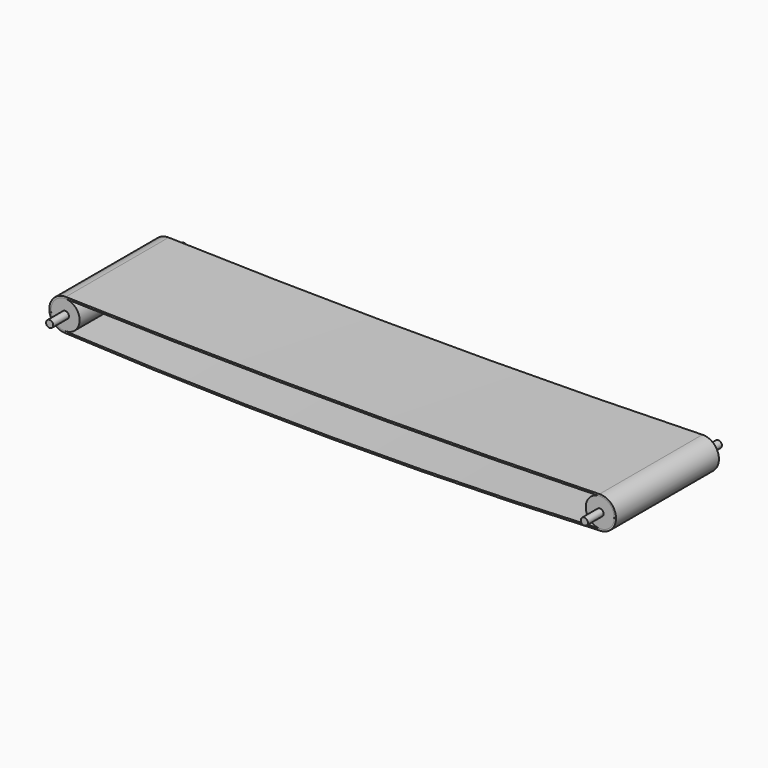
from build123d import *

# Parameters (mm, degrees)
F0_R     = 10
F1_DEPTH = 235
F2_R     = 40
F3_DEPTH = 180
F8_DEPTH = 360.68


with BuildPart() as f1:
    # F0 (on Front) → F1 (new body, symmetric)
    with BuildSketch(Plane.XZ):
        Circle(F0_R)
    extrude(amount=F1_DEPTH, both=True)

    # F2 (on Front) → F3 (join, symmetric)
    with BuildSketch(Plane.XZ):
        Circle(F2_R)
    extrude(amount=F3_DEPTH, both=True)


with BuildPart() as f5_1:
    # F5: instance of F1
    add(f1.part.mirror(Plane.YZ.offset(750)))


with BuildPart() as f8:
    # F7 (on offset) → F8 (new body)
    with BuildSketch(Plane.XZ.offset(180)):
        with BuildLine():
            ThreePointArc((1498.720032, 44.981793), (750, 34.331439), (1.279968, 44.981793))
            ThreePointArc((1.279968, 44.981793), (-44.965908, 1.751315), (-2.222469, -44.945085))
            ThreePointArc((-2.222469, -44.945085), (750, -63.531883), (1502.222469, -44.945085))
            ThreePointArc((1502.222469, -44.945085), (1544.965908, 1.751315), (1498.720032, 44.981793))
        make_face()
        with BuildLine():
            ThreePointArc((-1.975528, -39.951186), (-39.969696, 1.556724), (1.13775, 39.983816))
            ThreePointArc((1.13775, 39.983816), (750, 29.331439), (1498.86225, 39.983816))
            ThreePointArc((1498.86225, 39.983816), (1539.969696, 1.556724), (1501.975528, -39.951186))
            ThreePointArc((1501.975528, -39.951186), (750, -58.531883), (-1.975528, -39.951186))
        make_face(mode=Mode.SUBTRACT)
    extrude(amount=-F8_DEPTH)


solid = Compound([f1.part, f5_1.part, f8.part])
